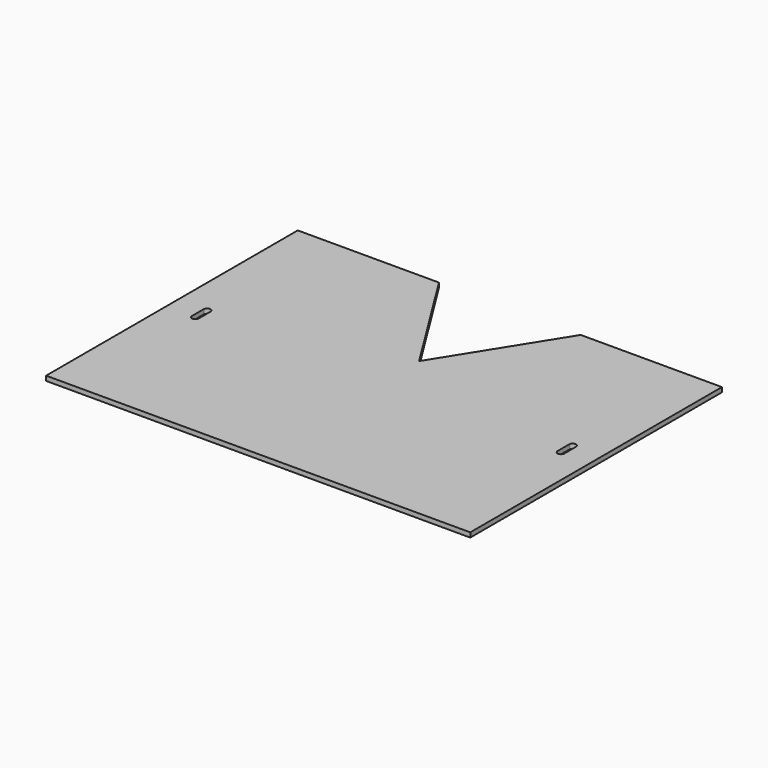
from build123d import *

# Parameters (mm, degrees)
F1_DEPTH = 3.175


with BuildPart() as f1:
    # F0 (on Top) → F1 (new body)
    with BuildSketch(Plane.XY):
        Polygon((-144.9, -107.4624), (144.9, -107.4624), (144.9, 107.4624), (48.420016, 107.4624), (0, 30), (-48.420016, 107.4624), (-144.9, 107.4624), (-144.9, 0), align=None)
        with BuildLine():
            Line((-127.2114, -5), (-127.2114, 0))
            Line((-127.2114, 0), (-127.2114, 5))
            ThreePointArc((-127.2114, 5), (-124.9, 7.3114), (-122.5886, 5))
            Line((-122.5886, 5), (-122.5886, -5))
            ThreePointArc((-122.5886, -5), (-124.9, -7.3114), (-127.2114, -5))
        make_face(mode=Mode.SUBTRACT)
        with BuildLine():
            ThreePointArc((122.5886, 5), (124.9, 7.3114), (127.2114, 5))
            Line((127.2114, 5), (127.2114, -5))
            ThreePointArc((127.2114, -5), (124.9, -7.3114), (122.5886, -5))
            Line((122.5886, -5), (122.5886, 5))
        make_face(mode=Mode.SUBTRACT)
    extrude(amount=F1_DEPTH)


solid = f1.part
